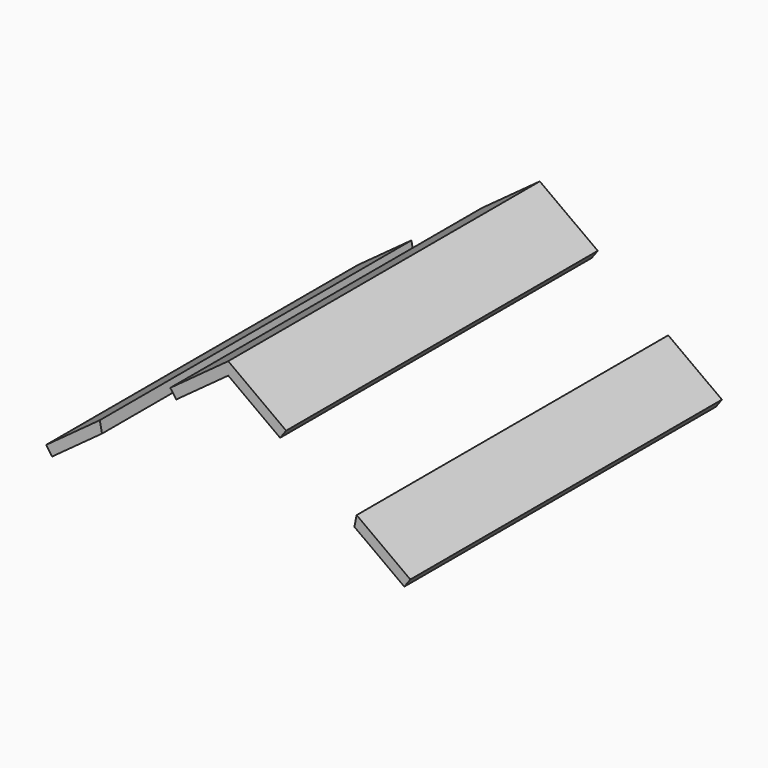
from build123d import *

# Parameters (mm, degrees)
F1_DEPTH      = 457.2
F1_DEPTH_BACK = 25.4


with BuildPart() as f1:
    # F0 (on Front) → F1 (new body, two sides)
    with BuildSketch(Plane.XZ) as f1_sk:
        Polygon((-299.1548351821, 139.4029458545), (-237.2849558077, 184.5610987857), (-240.105147751, 198.2257542497), (-306.6421593668, 149.6611121894), align=None)
    extrude(amount=-F1_DEPTH)
    extrude(f1_sk.sketch, amount=F1_DEPTH_BACK)


with BuildPart() as f1b:
    # F0 (on Front) → F1, piece 2 (new body, two sides)
    with BuildSketch(Plane.XZ) as f1_2_sk:
        Polygon((-80.9625, 298.6591613216), (-16.6426598407, 251.7128086247), (-9.155335656, 261.9709749596), (-80.9625, 314.3822442523), align=None)
        Polygon((-145.2823401593, 251.7128086247), (-80.9625, 298.6591613216), (-80.9625, 314.3822442523), (-152.769664344, 261.9709749596), align=None)
    extrude(amount=-F1_DEPTH)
    extrude(f1_2_sk.sketch, amount=F1_DEPTH_BACK)


with BuildPart() as f1c:
    # F0 (on Front) → F1, piece 3 (new body, two sides)
    with BuildSketch(Plane.XZ) as f1_3_sk:
        Polygon((78.180147751, 198.2257542497), (75.3599558077, 184.5610987857), (137.2298351821, 139.4029458545), (144.7171593668, 149.6611121894), align=None)
    extrude(amount=-F1_DEPTH)
    extrude(f1_3_sk.sketch, amount=F1_DEPTH_BACK)


solid = Compound([f1.part, f1b.part, f1c.part])
